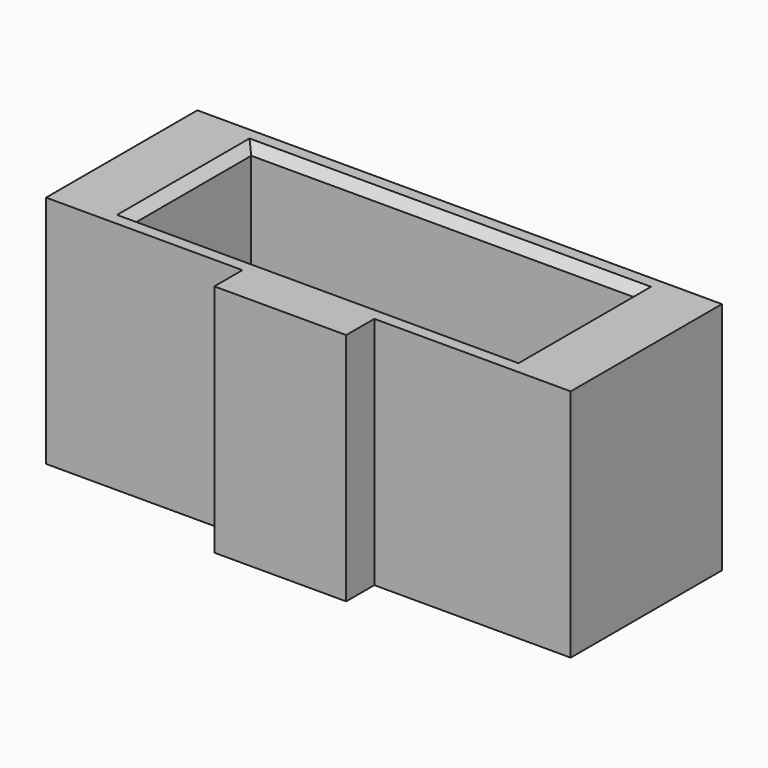
from build123d import *

# Parameters (mm, degrees)
SKETCH_W     = 13.1
SKETCH_H     = 5.05
PAD_DEPTH    = 8
CHAMFER_SIZE = 0.3


with BuildPart() as part:
    # Sketch → Pad (new body)
    with BuildSketch(Plane.XY):
        Polygon((-8.95, 3.225), (-8.95, -3.225), (-2.25, -3.225), (-2.25, -4.425), (2.25, -4.425), (2.25, -3.225), (8.95, -3.225), (8.95, 3.225), align=None)
        Rectangle(SKETCH_W, SKETCH_H, mode=Mode.SUBTRACT)
    extrude(amount=PAD_DEPTH)

    # Chamfer
    chamfer_edges = [part.edges().sort_by_distance(p)[0] for p in [
        (6.55, 0, 8),
        (0, 2.525, 8),
        (-6.55, 0, 8),
        (0, -2.525, 8),
    ]]
    chamfer(chamfer_edges, length=CHAMFER_SIZE)


solid = part.part
